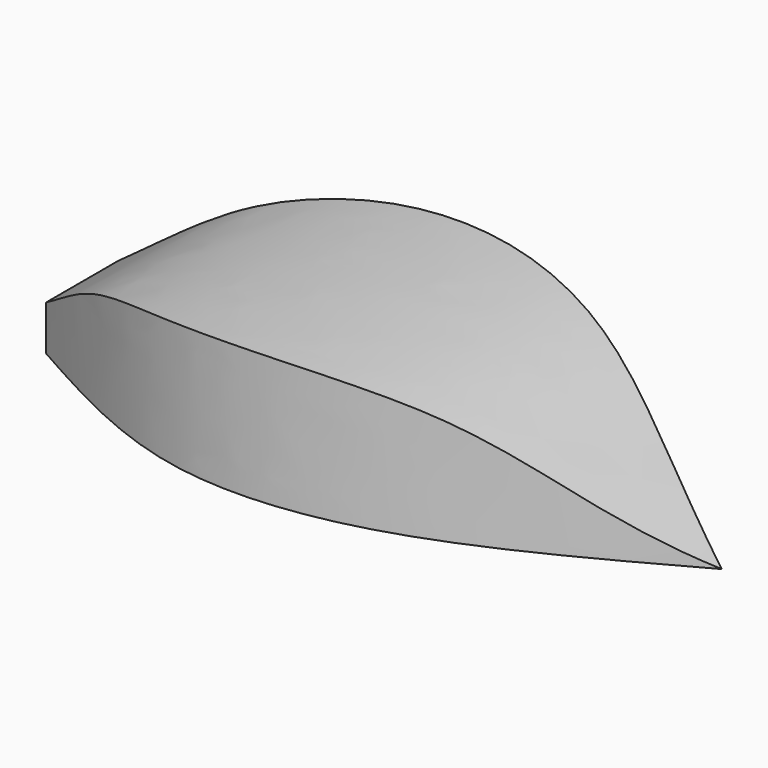
from build123d import *

# Parameters (mm, degrees)
F0_W          = 109.5394790173
F0_H          = 28.1250011176
F1_DEPTH      = 35
F1_DEPTH_BACK = 35
F5_DEPTH      = 31
F6_DEPTH      = 100


with BuildPart() as f1:
    # F0 (on Front) → F1 (new body, two sides)
    with BuildSketch(Plane.XZ) as f1_sk:
        with Locations((54.7697395086, 14.0625005588)):
            Rectangle(F0_W, F0_H)
    extrude(amount=F1_DEPTH)
    extrude(f1_sk.sketch, amount=-F1_DEPTH_BACK)

    # F3 (on face) → F5 (intersect)
    with BuildSketch(Plane.XY.offset(28.1250011176)):
        with BuildLine():
            add(Edge.make_bspline(
                [(0, 7.6973685063), (10.7783876284, 13.7571428571), (32.2328018982, 25.8191426464), (69.7141381245, 21.9197675934), (95.7061758288, 7.6138153282), (109.5394790173, 0)],
                knots=[0, 0, 0, 0, 0.3207776819, 0.6385089786, 1, 1, 1, 1], degree=3))
            Line((0, 7.6973685063), (0, 0))
            Line((0, 0), (109.5394790173, 0))
        make_face()
        with BuildLine():
            add(Edge.make_bspline(
                [(0, -7.6973685063), (10.7783876284, -13.7571428571), (32.2328018982, -25.8191426464), (69.7141381245, -21.9197675934), (95.7061758288, -7.6138153282), (109.5394790173, 0)],
                knots=[0, 0, 0, 0, 0.3207776819, 0.6385089786, 1, 1, 1, 1], degree=3))
            Line((109.5394790173, 0), (0, 0))
            Line((0, 0), (0, -7.6973685063))
        make_face()
    extrude(amount=-F5_DEPTH, mode=Mode.INTERSECT)

    # F4 (on face) → F6 (intersect)
    with BuildSketch(Plane.XZ.offset(35)):
        with BuildLine():
            add(Edge.make_bspline(
                [(0, 7.6973685063), (7.5000007637, 12.7302631736), (18.652984131, 22.5336262328), (78.5500374125, 24.2570244507), (94.2074585817, 6.353942989), (109.5394790173, 0)],
                knots=[0, 0, 0, 0, 0.2648366639, 0.6545064133, 1, 1, 1, 1], degree=3))
            Line((0, 7.6973685063), (0, 0))
            Line((0, 0), (109.5394790173, 0))
        make_face()
    extrude(amount=-F6_DEPTH, mode=Mode.INTERSECT)


solid = f1.part
